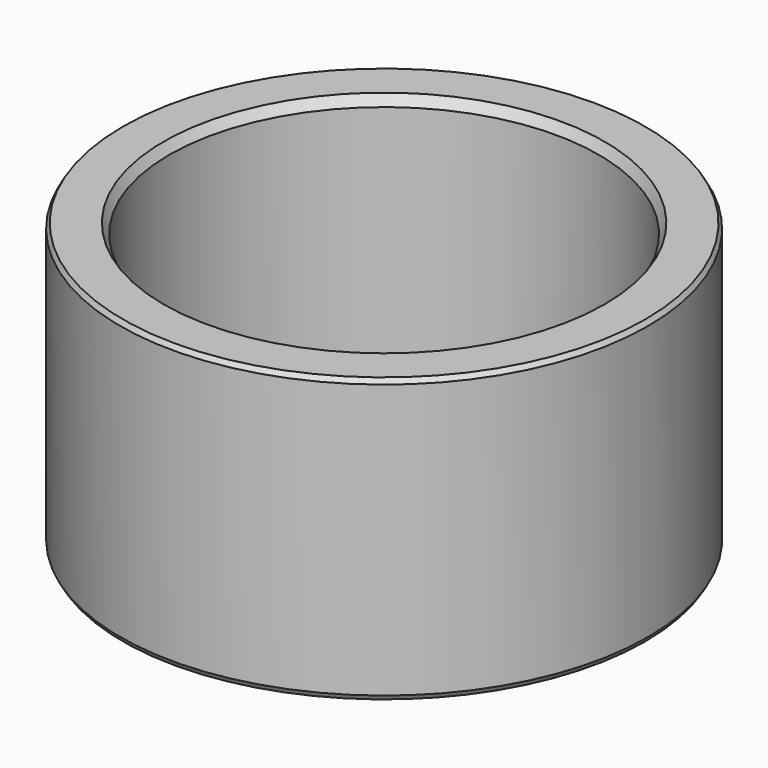
from build123d import *

# Parameters (mm, degrees)
F0_R     = 27
F0_R_2   = 21.97
F1_DEPTH = 29
F2_SIZE2 = 0.5773502692
F2_SIZE  = 1
F3_SIZE2 = 0.2886751346
F3_SIZE  = 0.5


with BuildPart() as f1:
    # F0 (on Top) → F1 (new body)
    with BuildSketch(Plane.XY):
        Circle(F0_R)
        Circle(F0_R_2, mode=Mode.SUBTRACT)
    extrude(amount=F1_DEPTH)

    # F2
    f2_edges = [f1.edges().sort_by_distance(p)[0] for p in [
        (-21.97, 0, 29),
        (-21.97, 0, 0),
    ]]
    f2_side = f1.faces().sort_by_distance((-21.97, 0, 14.5))[0]
    chamfer(f2_edges, length=F2_SIZE, length2=F2_SIZE2, reference=f2_side)

    # F3
    f3_edges = [f1.edges().sort_by_distance(p)[0] for p in [
        (-27, 0, 29),
        (-27, 0, 0),
    ]]
    f3_side = f1.faces().sort_by_distance((-27, 0, 14.5))[0]
    chamfer(f3_edges, length=F3_SIZE, length2=F3_SIZE2, reference=f3_side)


solid = f1.part
